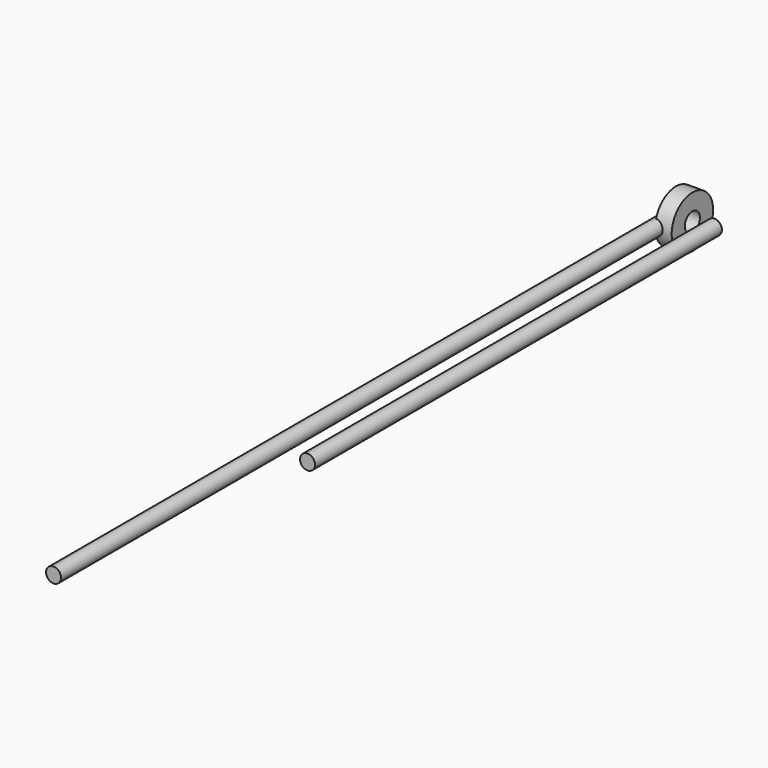
from build123d import *

# Parameters (mm, degrees)
F0_R     = 3.175
F1_DEPTH = 330.2
F2_R     = 11
F2_R_2   = 4
F3_DEPTH = 7
F4_R     = 3.175
F5_DEPTH = 215.9


with BuildPart() as f1:
    # F0 (on Front) → F1 (new body)
    with BuildSketch(Plane.XZ):
        Circle(F0_R)
    extrude(amount=F1_DEPTH)


with BuildPart() as f3:
    # F2 (on Right) → F3 (new body)
    with BuildSketch(Plane.YZ):
        Circle(F2_R)
        Circle(F2_R_2, mode=Mode.SUBTRACT)
    extrude(amount=F3_DEPTH)


with BuildPart() as f5:
    # F4 (on Front) → F5 (new body)
    with BuildSketch(Plane.XZ):
        with Locations((16.357601, 1.0922)):
            Circle(F4_R)
    extrude(amount=F5_DEPTH)


solid = Compound([f1.part, f3.part, f5.part])
